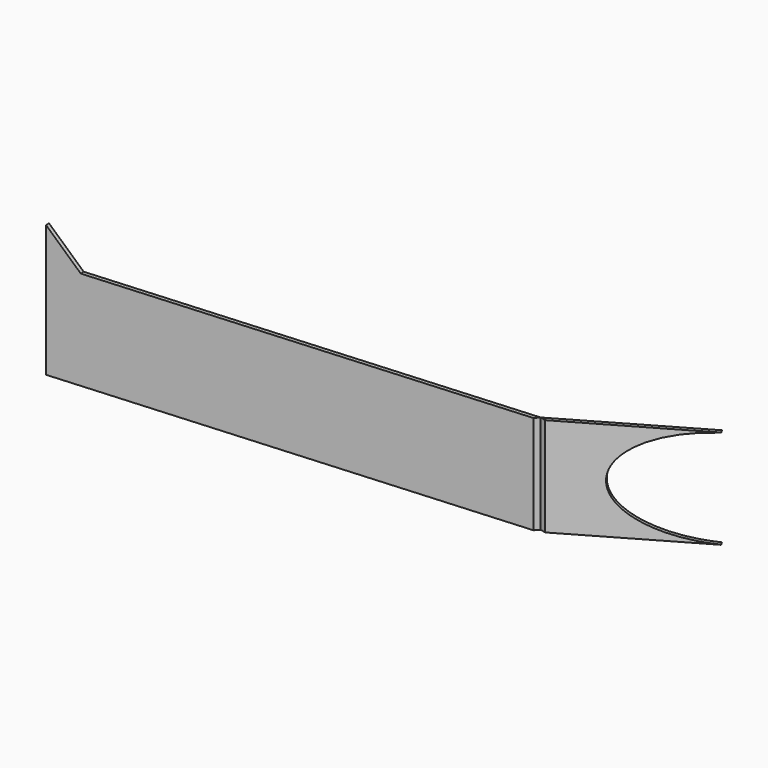
from build123d import *

# Parameters (mm, degrees)
F3_DEPTH  = 3.175
F5_W      = 121.3115097417
F5_H      = 79.375
F6_DEPTH  = 3.175
F9_DEPTH  = 508
F12_DEPTH = 127
F14_W     = 22.6193475891
F14_H     = 102.4130078614
F15_DEPTH = 78.8076154867
F17_DEPTH = 76.0579848297


with BuildPart() as f3:
    # F2 (on line) → F3 (new body)
    with BuildSketch(Plane(origin=(0, 0, 0), x_dir=(-0.9975424899, -0.0700641192, 0), z_dir=(-0.0700641192, 0.9975424899, 0))):
        Polygon((-374.7787855402, 79.375), (-374.7787855402, 0), (0, 0), (0, 105.8333333333), (-26.4583333333, 79.375), align=None)
    extrude(amount=-F3_DEPTH)


with BuildPart() as f6:
    # F5 (on line) → F6 (new body)
    with BuildSketch(Plane(origin=(82.0941569891, -142.1912509096, 0), x_dir=(0.8660254038, 0.5, 0), z_dir=(0.5, -0.8660254038, 0))):
        with Locations((397.5553476934, 39.6875)):
            Rectangle(F5_W, F5_H)
    extrude(amount=F6_DEPTH)


with BuildPart() as f9_tool:
    # F8 (on offset) → F9 (new body)
    with BuildSketch(Plane.XY.offset(104.775)):
        Polygon((374.0802164765, 23.0913480962), (375.4452628981, 23.5089148446), (378.3071328128, 25.1612162103), (373.8577628981, 26.2585455017), (370.8132995806, 22.8618905471), (373.1291867382, 23.0245508804), align=None)
    extrude(amount=-F9_DEPTH)


with BuildPart() as f3_1:
    add(f3.part)

    # F9: cut by f9_tool
    add(f9_tool.part, mode=Mode.SUBTRACT)


with BuildPart() as f6_1:
    add(f6.part)

    # F9: cut by f9_tool
    add(f9_tool.part, mode=Mode.SUBTRACT)

    # F11 (on face) → F12 (cut, symmetric)
    with BuildSketch(Plane(origin=(478.9166121058, 0, 0), x_dir=(0, -1, 0), z_dir=(-1, 0, 0))):
        with BuildLine():
            ThreePointArc((-47.2268003725, 39.6875), (-58.8509999942, 67.7508003783), (-86.9143003725, 79.375))
            Line((-86.9143003725, 79.375), (-86.9143003725, 0))
            ThreePointArc((-86.9143003725, 0), (-58.8509999942, 11.6241996217), (-47.2268003725, 39.6875))
        make_face()
        with BuildLine():
            Line((-86.9143003725, 0), (-86.9143003725, 79.375))
            ThreePointArc((-86.9143003725, 79.375), (-126.6018003725, 39.6875), (-86.9143003725, 0))
        make_face()
    extrude(amount=F12_DEPTH, both=True, mode=Mode.SUBTRACT)

    # F14 (on offset) → F15 (cut, through all)
    with BuildSketch(Plane(origin=(82.0941569891, -142.1912509096, 0), x_dir=(-0.8660254038, -0.5, 0), z_dir=(-0.5, 0.8660254038, 0))):
        with Locations((-463.1707763588, 34.5184960693)):
            Rectangle(F14_W, F14_H)
    extrude(amount=-F15_DEPTH, mode=Mode.SUBTRACT)

    # F16 (on offset) → F17 (cut, through all)
    with BuildSketch(Plane(origin=(82.0941569891, -142.1912509096, 0), x_dir=(-0.8660254038, -0.5, 0), z_dir=(-0.5, 0.8660254038, 0))):
        with BuildLine():
            Line((-465.6792283058, 0.1272038529), (-451.8611025642, 0.1272038529))
            add(Edge.make_bspline(
                [(-451.8611025642, 0.1272038529), (-378.8361025642, 3.05759616), (-378.8361025642, 39.6875), (-378.8361025642, 76.31740384), (-451.8611025642, 79.2477961471)],
                knots=[1.6508819068, 1.6508819068, 1.6508819068, 3.1415926536, 3.1415926536, 4.6323034004, 4.6323034004, 4.6323034004], degree=2, weights=[1, 0.7348469228, 1, 0.7348469228, 1]))
            Line((-451.8611025642, 79.2477961471), (-465.6792283058, 79.2477961471))
            Line((-465.6792283058, 79.2477961471), (-465.6792283058, 0.1272038529))
        make_face()
    extrude(amount=-F17_DEPTH, mode=Mode.SUBTRACT)


solid = Compound([f3_1.part, f6_1.part])
